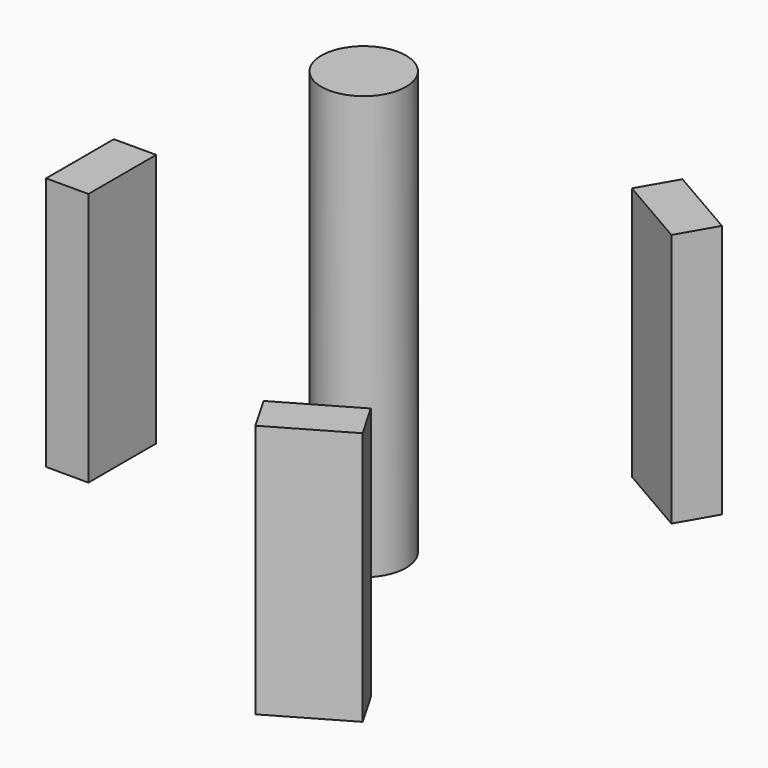
from build123d import *

# Parameters (mm, degrees)
F1_DEPTH = 30
F0_R     = 5
F2_DEPTH = 50


with BuildPart() as f1:
    # F0 (on Top) → F1 (new body)
    with BuildSketch(Plane.XY):
        Polygon((18.580127, -22.181724), (14.25, -24.681724), (9.919873, -27.181724), (12.419873, -31.511851), (21.080127, -26.511851), align=None)
        Polygon((9.919873, 27.181724), (14.25, 24.681724), (18.580127, 22.181724), (21.080127, 26.511851), (12.419873, 31.511851), align=None)
        Polygon((-28.5, -5), (-28.5, 0), (-28.5, 5), (-33.5, 5), (-33.5, -5), align=None)
    extrude(amount=F1_DEPTH)


with BuildPart() as f2:
    # F0 (on Top) → F2 (new body)
    with BuildSketch(Plane.XY):
        Circle(F0_R)
    extrude(amount=F2_DEPTH)


solid = Compound([f1.part, f2.part])
